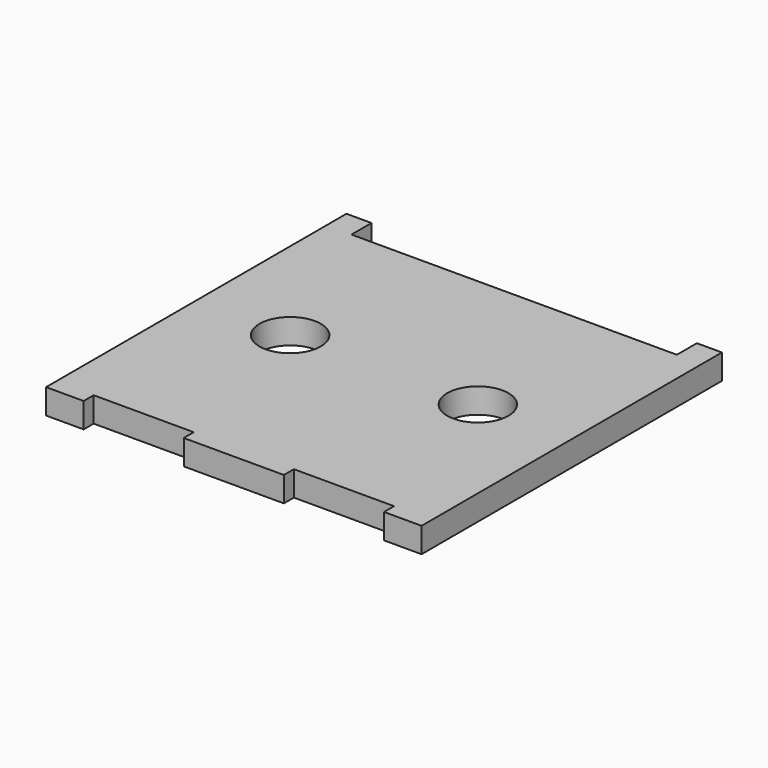
from build123d import *

# Parameters (mm, degrees)
PAD_DEPTH    = 10
SKETCH001_R  = 12.25
POCKET_DEPTH = 10.001


with BuildPart() as part:
    # Sketch → Pad (new body)
    with BuildSketch(Plane.XY):
        Polygon((150, 0), (150, 150), (140, 150), (140, 140), (10, 140), (10, 150), (0, 150), (0, 0), (15, 0), (15, 5), (55, 5), (55, 0), (95, 0), (95, 5), (135, 5), (135, 0), align=None)
    extrude(amount=PAD_DEPTH)

    # Sketch001 (on Face18 of Pad) → Pocket (cut, through all)
    with BuildSketch(Plane.XY.offset(10)):
        with Locations((37.5, 75)):
            Circle(SKETCH001_R)
        with Locations((112.5, 75)):
            Circle(SKETCH001_R)
    extrude(amount=-POCKET_DEPTH, mode=Mode.SUBTRACT)


solid = part.part
